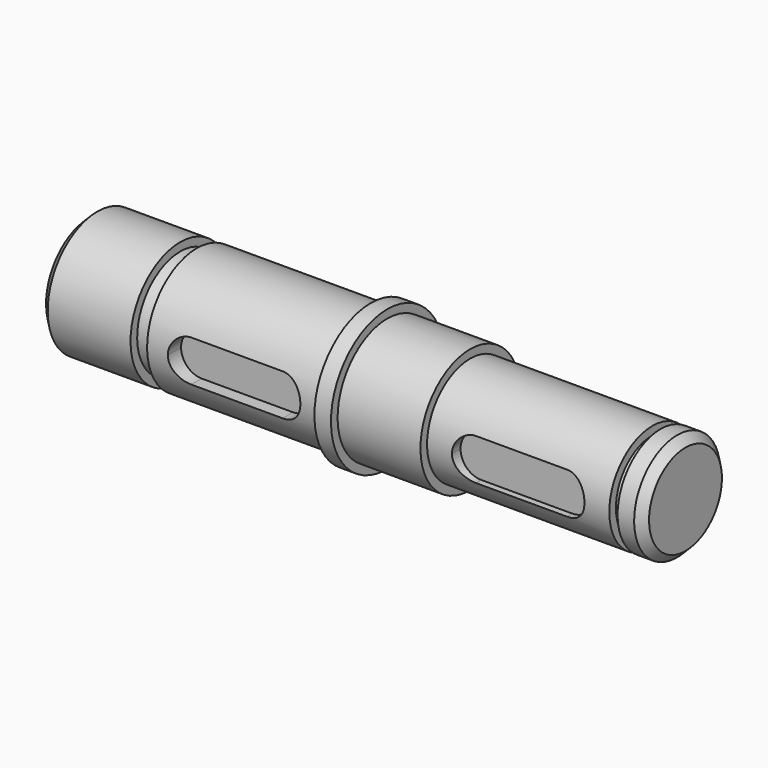
from build123d import *

# Parameters (mm, degrees)
F0_W     = 1
F0_H     = 5.5
F0_H_2   = 7.5
F0_W_2   = 2
F0_H_3   = 6.5
F2_DEPTH = 25
F3_DEPTH = 5.5
F4_DEPTH = 5.2


with BuildPart() as f1:
    # F0 (on Front) → F1 (revolve)
    with BuildSketch(Plane.XZ):
        Polygon((9.0724842548, 6.5), (9.0724842548, 0), (10.0724842548, 0), (10.0724842548, 5.5), align=None)
        Polygon((7.0724842548, 6.5), (7.0724842548, 5.5), (7.0724842548, 0), (9.0724842548, 0), (9.0724842548, 6.5), align=None)
        with Locations((6.5724842548, 2.75)):
            Rectangle(F0_W, F0_H)
        with BuildLine():
            Line((-15.9275157452, 6.5), (-15.9275157452, 0))
            Line((-15.9275157452, 0), (-12.9275157452, 0))
            ThreePointArc((-12.9275157452, 0), (-12.1952826981, 1.767766953), (-10.4275157452, 2.5))
            Line((-10.4275157452, 2.5), (0.5724842548, 2.5))
            ThreePointArc((0.5724842548, 2.5), (2.3402512078, 1.767766953), (3.0724842548, 0))
            Line((3.0724842548, 0), (6.0724842548, 0))
            Line((6.0724842548, 0), (6.0724842548, 5.5))
            Line((6.0724842548, 5.5), (6.0724842548, 6.5))
            Line((6.0724842548, 6.5), (-15.9275157452, 6.5))
        make_face()
        with BuildLine():
            ThreePointArc((-10.4275157452, 2.5), (-12.1952826981, 1.767766953), (-12.9275157452, 0))
            Line((-12.9275157452, 0), (3.0724842548, 0))
            ThreePointArc((3.0724842548, 0), (2.3402512078, 1.767766953), (0.5724842548, 2.5))
            Line((0.5724842548, 2.5), (-10.4275157452, 2.5))
        make_face()
        Polygon((-24.9275157452, 7.5), (-24.9275157452, 0), (-15.9275157452, 0), (-15.9275157452, 6.5), (-15.9275157452, 7.5), align=None)
        with Locations((-25.4275157452, 3.75)):
            Rectangle(F0_W, F0_H_2)
        Polygon((-27.9275157452, 8.5), (-27.9275157452, 7.5), (-27.9275157452, 0), (-25.9275157452, 0), (-25.9275157452, 7.5), (-25.9275157452, 8.5), align=None)
        with BuildLine():
            Line((-27.9275157452, 7.5), (-48.9275157452, 7.5))
            Line((-48.9275157452, 7.5), (-48.9275157452, 6.5))
            Line((-48.9275157452, 6.5), (-48.9275157452, 0))
            Line((-48.9275157452, 0), (-46.4275157452, 0))
            ThreePointArc((-46.4275157452, 0), (-45.6952826981, 1.767766953), (-43.9275157452, 2.5))
            Line((-43.9275157452, 2.5), (-32.9275157452, 2.5))
            ThreePointArc((-32.9275157452, 2.5), (-31.1597487922, 1.767766953), (-30.4275157452, 0))
            Line((-30.4275157452, 0), (-27.9275157452, 0))
            Line((-27.9275157452, 0), (-27.9275157452, 7.5))
        make_face()
        with BuildLine():
            ThreePointArc((-43.9275157452, 2.5), (-45.6952826981, 1.767766953), (-46.4275157452, 0))
            Line((-46.4275157452, 0), (-30.4275157452, 0))
            ThreePointArc((-30.4275157452, 0), (-31.1597487922, 1.767766953), (-32.9275157452, 2.5))
            Line((-32.9275157452, 2.5), (-43.9275157452, 2.5))
        make_face()
        with Locations((-49.9275157452, 3.25)):
            Rectangle(F0_W_2, F0_H_3)
        Polygon((-50.9275157452, 0), (-50.9275157452, 6.5), (-50.9275157452, 7.5), (-60.9275157452, 7.5), (-60.9275157452, 0), align=None)
        Polygon((-61.9275157452, 0), (-60.9275157452, 0), (-60.9275157452, 7.5), (-61.9275157452, 6.5), align=None)
    revolve(axis=Axis((-25.9275157452, 0, 0), (1, 0, 0)))

    # F0 (on Front) → F2 (cut)
    with BuildSketch(Plane.XZ):
        with BuildLine():
            Line((-30.4275157452, 0), (-46.4275157452, 0))
            ThreePointArc((-46.4275157452, 0), (-45.6952826981, -1.767766953), (-43.9275157452, -2.5))
            Line((-43.9275157452, -2.5), (-32.9275157452, -2.5))
            ThreePointArc((-32.9275157452, -2.5), (-31.1597487922, -1.767766953), (-30.4275157452, 0))
        make_face()
        with BuildLine():
            ThreePointArc((-43.9275157452, 2.5), (-45.6952826981, 1.767766953), (-46.4275157452, 0))
            Line((-46.4275157452, 0), (-30.4275157452, 0))
            ThreePointArc((-30.4275157452, 0), (-31.1597487922, 1.767766953), (-32.9275157452, 2.5))
            Line((-32.9275157452, 2.5), (-43.9275157452, 2.5))
        make_face()
        with BuildLine():
            ThreePointArc((-10.4275157452, 2.5), (-12.1952826981, 1.767766953), (-12.9275157452, 0))
            Line((-12.9275157452, 0), (3.0724842548, 0))
            ThreePointArc((3.0724842548, 0), (2.3402512078, 1.767766953), (0.5724842548, 2.5))
            Line((0.5724842548, 2.5), (-10.4275157452, 2.5))
        make_face()
        with BuildLine():
            Line((3.0724842548, 0), (-12.9275157452, 0))
            ThreePointArc((-12.9275157452, 0), (-12.1952826981, -1.767766953), (-10.4275157452, -2.5))
            Line((-10.4275157452, -2.5), (0.5724842548, -2.5))
            ThreePointArc((0.5724842548, -2.5), (2.3402512078, -1.767766953), (3.0724842548, 0))
        make_face()
    extrude(amount=F2_DEPTH, mode=Mode.SUBTRACT)

    # F3 (add): a face of the model
    f3_faces = [f1.faces().sort_by_distance(p)[0] for p in [
        (-38.4275157452, 0, 0),
    ]]
    extrude(f3_faces, amount=F3_DEPTH)

    # F4 (add): a face of the model
    f4_faces = [f1.faces().sort_by_distance(p)[0] for p in [
        (-4.9275157452, 0, 0),
    ]]
    extrude(f4_faces, amount=F4_DEPTH)


solid = f1.part
